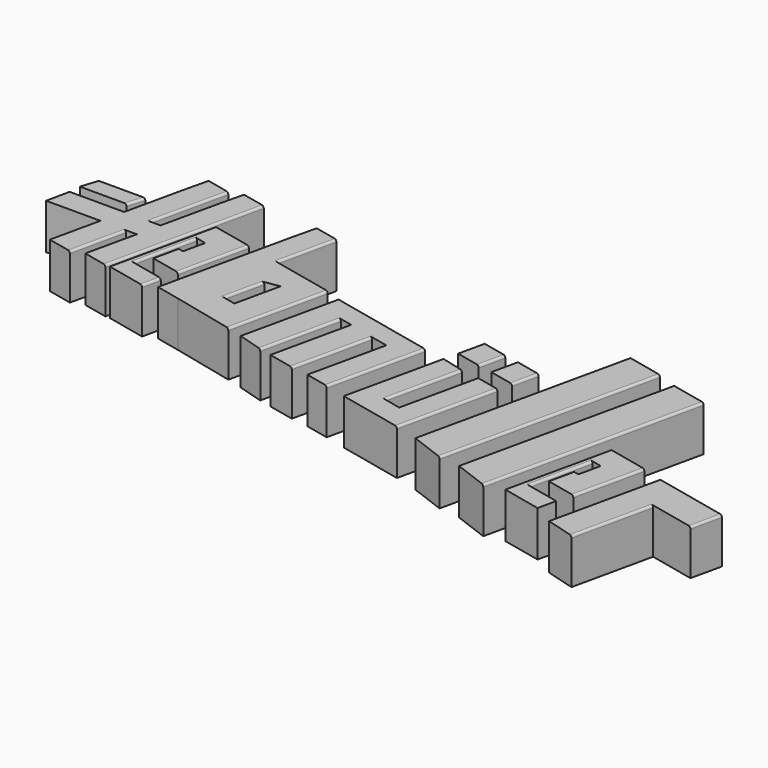
from build123d import *

# Parameters (mm, degrees)
F1_DEPTH = 25.4
F2_R     = 1.27
F2_2_R   = 1.27
F2_3_R   = 1.27
F2_4_R   = 1.27
F2_5_R   = 1.27
F2_6_R   = 1.27
F2_7_R   = 1.27
F2_8_R   = 1.27
F2_9_R   = 1.27
F2_10_R  = 1.27
F2_11_R  = 1.27
F2_12_R  = 1.27


with BuildPart() as f1:
    # F0 (on Top) → F1 (new body)
    with BuildSketch(Plane.XY):
        Polygon((-69.8548853397, 32.7220372856), (-95.9094241261, 32.7220372856), (-98.9867299795, 23.2849624008), (-72.7270394564, 23.2849624008), align=None)
    extrude(amount=F1_DEPTH)

    # F2#3
    f2_3_edges = [f1.edges().sort_by_distance(p)[0] for p in [
        (-71.290962, 28.0035, 25.4),
    ]]
    fillet(f2_3_edges, radius=F2_3_R)


with BuildPart() as f1b:
    # F0 (on Top) → F1, piece 2 (new body)
    with BuildSketch(Plane.XY):
        Polygon((-71.7212715714, 3.6166611477), (-68.8405496484, 16.6346058249), (-99.3820875883, 16.6346058249), (-102.1422967315, 3.6166611477), align=None)
        Polygon((-54.5269044594, 16.6346058249), (-68.8405496484, 16.6346058249), (-71.7212715714, 3.6166611477), (-57.4076263824, 3.6166611477), align=None)
        Polygon((-48.4391301191, 16.6346058249), (-54.5269044594, 16.6346058249), (-57.4076263824, 3.6166611477), (-51.3198520421, 3.6166611477), align=None)
        Polygon((-57.4076263824, 3.6166611477), (-71.7212715714, 3.6166611477), (-77.8558850288, -24.1055767983), (-64.2104384761, -27.1251576928), align=None)
        Polygon((-41.3623726554, 48.6143802077), (-48.4391301191, 16.6346058249), (-51.3198520421, 3.6166611477), (-57.5695274957, -24.6255404531), (-43.9240809429, -27.6451213476), (-24.7002538621, 59.227101697), (-38.1161585192, 62.1958876015), align=None)
        Polygon((-58.4025160524, 62.7158512563), (-61.6487301886, 49.1343438625), (-68.8405496484, 16.6346058249), (-54.5269044594, 16.6346058249), (-44.9866113953, 59.7470653518), align=None)
    extrude(amount=F1_DEPTH)

    # F2
    f2_edges = [f1b.edges().sort_by_distance(p)[0] for p in [
        (-49.756758, 38.190836, 25.4),
        (-60.809032, -11.754248, 25.4),
        (-34.312167, 15.79099, 25.4),
    ]]
    fillet(f2_edges, radius=F2_R)


with BuildPart() as f1c:
    # F0 (on Top) → F1, piece 3 (new body)
    with BuildSketch(Plane.XY):
        Polygon((-28.3734610908, 17.1608142555), (-22.7862559259, 15.7909901747), (-25.4802953765, 3.6166611477), (-28.3734610908, 4.2568855538), (-31.4436152838, -9.6171010728), (-14.7930985255, -13.3016695545), (-6.1770153091, 25.6342977637), (-28.5048495002, 30.5751915101), (-41.3883373142, -27.6451213476), (-19.4815568018, -32.4928407418), (-17.2152607297, -22.2514784453), (-35.9498564836, -18.1057271732), align=None)
    extrude(amount=F1_DEPTH)

    # F2#2
    f2_2_edges = [f1c.edges().sort_by_distance(p)[0] for p in [
        (-32.161659, -0.472456, 25.4),
        (-10.485057, 6.166314, 25.4),
        (-18.348409, -27.37216, 25.4),
    ]]
    fillet(f2_2_edges, radius=F2_2_R)


with BuildPart() as f1d:
    # F0 (on Top) → F1, piece 4 (new body)
    with BuildSketch(Plane.XY):
        Polygon((6.572613388, 57.2112132996), (3.3263992518, 43.6297059059), (-12.8807555884, -29.6102147549), (0.7646909643, -32.6297956495), (12.7183656054, 21.3887036461), (19.9885180452, 54.2424273952), align=None)
        Polygon((12.7183656054, 21.3887036461), (0.7646909643, -32.6297956495), (35.48804385, -40.8177809655), (47.5480636574, 13.6812907452), (34.0116305968, 16.6767482036), align=None)
        Polygon((15.5717815686, -19.3166861529), (20.5332152545, 3.103967756), (28.5542372746, 4.4131164266), (22.942185513, -20.9476720535), align=None, mode=Mode.SUBTRACT)
    extrude(amount=F1_DEPTH)

    # F2#4
    f2_4_edges = [f1d.edges().sort_by_distance(p)[0] for p in [
        (16.353442, 37.815566, 25.4),
        (18.052498, -8.106359, 25.4),
        (41.518054, -13.568245, 25.4),
    ]]
    fillet(f2_4_edges, radius=F2_4_R)


with BuildPart() as f1e:
    # F0 (on Top) → F1, piece 5 (new body)
    with BuildSketch(Plane.XY):
        Polygon((56.1828884811, 10.4826177451), (44.2982874811, -43.2237386703), (58.6694051347, -47.4670261571), (68.4567379189, -3.2381973674), (75.4580601084, -4.7875097068), (65.647936566, -49.1193296343), (80.2400389419, -52.3483946103), (89.9975491157, -8.2543338071), (99.5671160161, -10.3719692593), (89.9875708898, -53.6618083416), (103.1564025063, -56.5759198146), (115.1101039259, -2.5572995076), align=None)
    extrude(amount=F1_DEPTH)

    # F2#5
    f2_5_edges = [f1e.edges().sort_by_distance(p)[0] for p in [
        (63.563072, -25.352612, 25.4),
        (85.118794, -30.301364, 25.4),
        (109.133253, -29.56661, 25.4),
    ]]
    fillet(f2_5_edges, radius=F2_5_R)


with BuildPart() as f1f:
    # F0 (on Top) → F1, piece 6 (new body)
    with BuildSketch(Plane.XY):
        Polygon((140.1360348006, -8.127430539), (127.180442214, -4.7875097068), (115.0733747565, -59.4991891328), (151.2385817677, -67.5021348565), (163.4337717843, -12.3922307393), (150.379428067, -9.503454126), (140.7904268017, -52.8360253771), (130.7349386316, -50.6108611184), align=None)
    extrude(amount=F1_DEPTH)

    # F2#6
    f2_6_edges = [f1f.edges().sort_by_distance(p)[0] for p in [
        (135.435487, -29.369146, 25.4),
        (157.336177, -39.947183, 25.4),
    ]]
    fillet(f2_6_edges, radius=F2_6_R)


with BuildPart() as f1g:
    # F0 (on Top) → F1, piece 7 (new body)
    with BuildSketch(Plane.XY):
        Polygon((154.5366714331, 13.1664413276), (151.2970328331, -1.473443117), (165.3238225088, -4.577410873), (168.5501596656, 10.0023645234), (156.3529807509, 12.7014603922), align=None)
    extrude(amount=F1_DEPTH)

    # F2#12
    f2_12_edges = [f1g.edges().sort_by_distance(p)[0] for p in [
        (166.936991, 2.712477, 25.4),
    ]]
    fillet(f2_12_edges, radius=F2_12_R)


with BuildPart() as f1h:
    # F0 (on Top) → F1, piece 8 (new body)
    with BuildSketch(Plane.XY):
        Polygon((132.2664687964, 17.7438522006), (129.0268301964, 3.103967756), (143.0536198721, 0), (146.2799570289, 14.5797753965), (134.0827781142, 17.2788712652), align=None)
    extrude(amount=F1_DEPTH)

    # F2#11
    f2_11_edges = [f1h.edges().sort_by_distance(p)[0] for p in [
        (144.666788, 7.289888, 25.4),
    ]]
    fillet(f2_11_edges, radius=F2_11_R)


with BuildPart() as f1i:
    # F0 (on Top) → F1, piece 9 (new body)
    with BuildSketch(Plane.XY):
        Polygon((190.5303888261, 46.9159626722), (164.4191592932, -71.0803419352), (183.785862088, -78.3399934819), (210.5244860124, 42.4914981716), align=None)
    extrude(amount=F1_DEPTH)

    # F2#7
    f2_7_edges = [f1i.edges().sort_by_distance(p)[0] for p in [
        (197.155174, -17.924248, 25.4),
    ]]
    fillet(f2_7_edges, radius=F2_7_R)


with BuildPart() as f1j:
    # F0 (on Top) → F1, piece 10 (new body)
    with BuildSketch(Plane.XY):
        Polygon((221.8970649182, 38.3023613453), (195.7858353853, -79.6939432621), (215.1525381802, -86.9535948088), (241.8911621046, 33.8778968447), align=None)
    extrude(amount=F1_DEPTH)

    # F2#8
    f2_8_edges = [f1j.edges().sort_by_distance(p)[0] for p in [
        (228.52185, -26.537849, 25.4),
    ]]
    fillet(f2_8_edges, radius=F2_8_R)


with BuildPart() as f1k:
    # F0 (on Top) → F1, piece 11 (new body)
    with BuildSketch(Plane.XY):
        Polygon((238.5980570085, -39.7141671486), (244.1852621734, -41.0839912294), (241.4912227229, -53.2583202564), (238.5980570085, -52.6180958503), (235.5279028156, -66.4920824768), (252.1784195738, -70.1766509586), (260.7945027903, -31.2406836404), (238.4666685992, -26.299789894), (225.5831807852, -84.5201027517), (247.4899612975, -89.3678221459), (249.7562573696, -79.1264598494), (231.0216616157, -74.9807085772), align=None)
    extrude(amount=F1_DEPTH)

    # F2#9
    f2_9_edges = [f1k.edges().sort_by_distance(p)[0] for p in [
        (234.809859, -57.347438, 25.4),
        (256.486461, -50.708667, 25.4),
    ]]
    fillet(f2_9_edges, radius=F2_9_R)


with BuildPart() as f1l:
    # F0 (on Top) → F1, piece 12 (new body)
    with BuildSketch(Plane.XY):
        Polygon((272.6933962275, -34.8696600853), (259.1887116432, -95.8971530199), (275.3872373663, -100.5259149405), (285.2966893195, -55.745231224), (310.7359760515, -61.3746537489), (314.5514941669, -44.1323773097), align=None)
    extrude(amount=F1_DEPTH)

    # F2#10
    f2_10_edges = [f1l.edges().sort_by_distance(p)[0] for p in [
        (280.341963, -78.135573, 25.4),
        (312.643735, -52.753516, 25.4),
    ]]
    fillet(f2_10_edges, radius=F2_10_R)


solid = Compound([f1.part, f1b.part, f1c.part, f1d.part, f1e.part, f1f.part, f1g.part, f1h.part, f1i.part, f1j.part, f1k.part, f1l.part])
